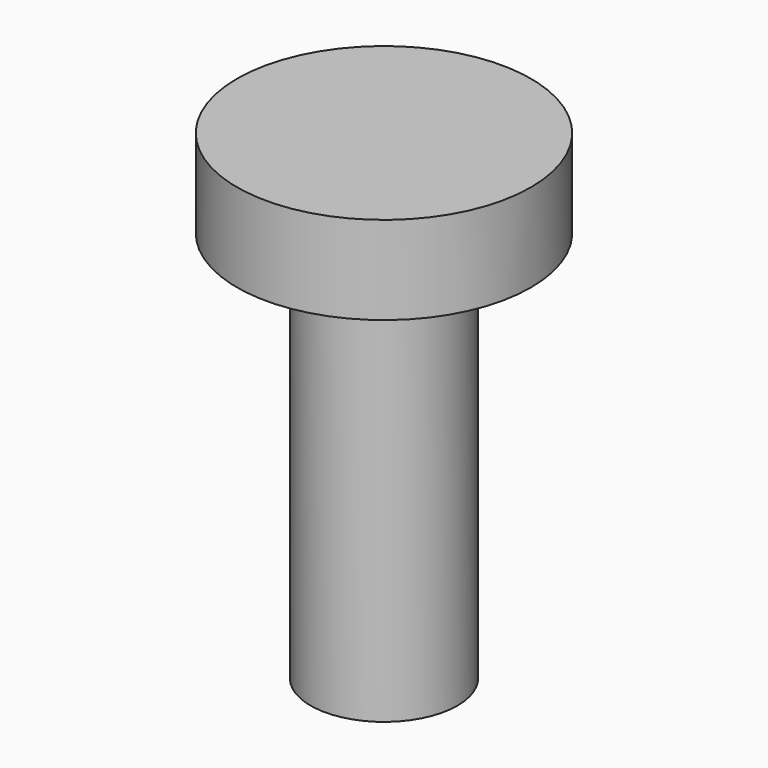
from build123d import *

# Parameters (mm, degrees)
F0_R     = 3
F1_DEPTH = 16
F2_R     = 6
F2_R_2   = 3
F3_DEPTH = 3.6


with BuildPart() as f1:
    # F0 (on Top) → F1 (new body)
    with BuildSketch(Plane.XY):
        Circle(F0_R)
    extrude(amount=F1_DEPTH)

    # F2 (on face) → F3 (join)
    with BuildSketch(Plane.XY.offset(16)):
        Circle(F2_R)
        Circle(F2_R_2, mode=Mode.SUBTRACT)
        Circle(F2_R_2)
    extrude(amount=F3_DEPTH)


solid = f1.part
